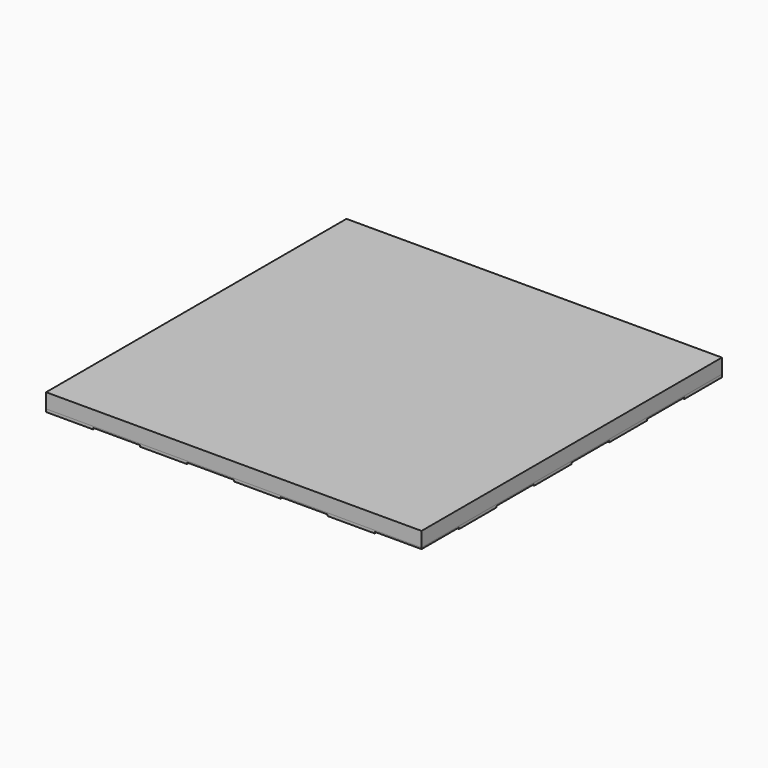
from build123d import *

# Parameters (mm, degrees)
F0_W     = 25.4
F0_H     = 25.4
F1_DEPTH = 1.524
F2_W     = 203.2
F2_H     = 203.2
F3_DEPTH = 7.9375
F4_W     = 25.4
F4_H     = 25.4
F5_DEPTH = 0.762


with BuildPart() as f1:
    # F0 (on Top) → F1 (new body)
    with BuildSketch(Plane.XY):
        with Locations((88.9, 88.9)):
            Rectangle(F0_W, F0_H)
    extrude(amount=-F1_DEPTH)


with BuildPart() as f1b:
    # F0 (on Top) → F1, piece 2 (new body)
    with BuildSketch(Plane.XY):
        with Locations((63.5, 63.5)):
            Rectangle(F0_W, F0_H)
    extrude(amount=-F1_DEPTH)


with BuildPart() as f1c:
    # F0 (on Top) → F1, piece 3 (new body)
    with BuildSketch(Plane.XY):
        with Locations((38.1, 88.9)):
            Rectangle(F0_W, F0_H)
    extrude(amount=-F1_DEPTH)


with BuildPart() as f1d:
    # F0 (on Top) → F1, piece 4 (new body)
    with BuildSketch(Plane.XY):
        with Locations((-12.7, 88.9)):
            Rectangle(F0_W, F0_H)
    extrude(amount=-F1_DEPTH)


with BuildPart() as f1e:
    # F0 (on Top) → F1, piece 5 (new body)
    with BuildSketch(Plane.XY):
        with Locations((12.7, 63.5)):
            Rectangle(F0_W, F0_H)
    extrude(amount=-F1_DEPTH)


with BuildPart() as f1f:
    # F0 (on Top) → F1, piece 6 (new body)
    with BuildSketch(Plane.XY):
        with Locations((-63.5, 88.9)):
            Rectangle(F0_W, F0_H)
    extrude(amount=-F1_DEPTH)


with BuildPart() as f1g:
    # F0 (on Top) → F1, piece 7 (new body)
    with BuildSketch(Plane.XY):
        with Locations((-88.9, 63.5)):
            Rectangle(F0_W, F0_H)
    extrude(amount=-F1_DEPTH)


with BuildPart() as f1h:
    # F0 (on Top) → F1, piece 8 (new body)
    with BuildSketch(Plane.XY):
        with Locations((-38.1, 63.5)):
            Rectangle(F0_W, F0_H)
    extrude(amount=-F1_DEPTH)


with BuildPart() as f1i:
    # F0 (on Top) → F1, piece 9 (new body)
    with BuildSketch(Plane.XY):
        with Locations((-63.5, 38.1)):
            Rectangle(F0_W, F0_H)
    extrude(amount=-F1_DEPTH)


with BuildPart() as f1j:
    # F0 (on Top) → F1, piece 10 (new body)
    with BuildSketch(Plane.XY):
        with Locations((-88.9, 12.7)):
            Rectangle(F0_W, F0_H)
    extrude(amount=-F1_DEPTH)


with BuildPart() as f1k:
    # F0 (on Top) → F1, piece 11 (new body)
    with BuildSketch(Plane.XY):
        with Locations((-63.5, -12.7)):
            Rectangle(F0_W, F0_H)
    extrude(amount=-F1_DEPTH)


with BuildPart() as f1l:
    # F0 (on Top) → F1, piece 12 (new body)
    with BuildSketch(Plane.XY):
        with Locations((-88.9, -38.1)):
            Rectangle(F0_W, F0_H)
    extrude(amount=-F1_DEPTH)


with BuildPart() as f1m:
    # F0 (on Top) → F1, piece 13 (new body)
    with BuildSketch(Plane.XY):
        with Locations((-63.5, -63.5)):
            Rectangle(F0_W, F0_H)
    extrude(amount=-F1_DEPTH)


with BuildPart() as f1n:
    # F0 (on Top) → F1, piece 14 (new body)
    with BuildSketch(Plane.XY):
        with Locations((-88.9, -88.9)):
            Rectangle(F0_W, F0_H)
    extrude(amount=-F1_DEPTH)


with BuildPart() as f1o:
    # F0 (on Top) → F1, piece 15 (new body)
    with BuildSketch(Plane.XY):
        with Locations((-38.1, -88.9)):
            Rectangle(F0_W, F0_H)
    extrude(amount=-F1_DEPTH)


with BuildPart() as f1p:
    # F0 (on Top) → F1, piece 16 (new body)
    with BuildSketch(Plane.XY):
        with Locations((-38.1, -38.1)):
            Rectangle(F0_W, F0_H)
    extrude(amount=-F1_DEPTH)


with BuildPart() as f1q:
    # F0 (on Top) → F1, piece 17 (new body)
    with BuildSketch(Plane.XY):
        with Locations((-38.1, 12.7)):
            Rectangle(F0_W, F0_H)
    extrude(amount=-F1_DEPTH)


with BuildPart() as f1r:
    # F0 (on Top) → F1, piece 18 (new body)
    with BuildSketch(Plane.XY):
        with Locations((-12.7, 38.1)):
            Rectangle(F0_W, F0_H)
    extrude(amount=-F1_DEPTH)


with BuildPart() as f1s:
    # F0 (on Top) → F1, piece 19 (new body)
    with BuildSketch(Plane.XY):
        with Locations((-12.7, -12.7)):
            Rectangle(F0_W, F0_H)
    extrude(amount=-F1_DEPTH)


with BuildPart() as f1t:
    # F0 (on Top) → F1, piece 20 (new body)
    with BuildSketch(Plane.XY):
        with Locations((-12.7, -63.5)):
            Rectangle(F0_W, F0_H)
    extrude(amount=-F1_DEPTH)


with BuildPart() as f1u:
    # F0 (on Top) → F1, piece 21 (new body)
    with BuildSketch(Plane.XY):
        with Locations((12.7, -88.9)):
            Rectangle(F0_W, F0_H)
    extrude(amount=-F1_DEPTH)


with BuildPart() as f1v:
    # F0 (on Top) → F1, piece 22 (new body)
    with BuildSketch(Plane.XY):
        with Locations((12.7, 12.7)):
            Rectangle(F0_W, F0_H)
    extrude(amount=-F1_DEPTH)


with BuildPart() as f1w:
    # F0 (on Top) → F1, piece 23 (new body)
    with BuildSketch(Plane.XY):
        with Locations((38.1, 38.1)):
            Rectangle(F0_W, F0_H)
    extrude(amount=-F1_DEPTH)


with BuildPart() as f1x:
    # F0 (on Top) → F1, piece 24 (new body)
    with BuildSketch(Plane.XY):
        with Locations((38.1, -12.7)):
            Rectangle(F0_W, F0_H)
    extrude(amount=-F1_DEPTH)


with BuildPart() as f1y:
    # F0 (on Top) → F1, piece 25 (new body)
    with BuildSketch(Plane.XY):
        with Locations((12.7, -38.1)):
            Rectangle(F0_W, F0_H)
    extrude(amount=-F1_DEPTH)


with BuildPart() as f1z:
    # F0 (on Top) → F1, piece 26 (new body)
    with BuildSketch(Plane.XY):
        with Locations((38.1, -63.5)):
            Rectangle(F0_W, F0_H)
    extrude(amount=-F1_DEPTH)


with BuildPart() as f1ba:
    # F0 (on Top) → F1, piece 27 (new body)
    with BuildSketch(Plane.XY):
        with Locations((63.5, -88.9)):
            Rectangle(F0_W, F0_H)
    extrude(amount=-F1_DEPTH)


with BuildPart() as f1bb:
    # F0 (on Top) → F1, piece 28 (new body)
    with BuildSketch(Plane.XY):
        with Locations((88.9, -63.5)):
            Rectangle(F0_W, F0_H)
    extrude(amount=-F1_DEPTH)


with BuildPart() as f1bc:
    # F0 (on Top) → F1, piece 29 (new body)
    with BuildSketch(Plane.XY):
        with Locations((63.5, -38.1)):
            Rectangle(F0_W, F0_H)
    extrude(amount=-F1_DEPTH)


with BuildPart() as f1bd:
    # F0 (on Top) → F1, piece 30 (new body)
    with BuildSketch(Plane.XY):
        with Locations((88.9, -12.7)):
            Rectangle(F0_W, F0_H)
    extrude(amount=-F1_DEPTH)


with BuildPart() as f1be:
    # F0 (on Top) → F1, piece 31 (new body)
    with BuildSketch(Plane.XY):
        with Locations((63.5, 12.7)):
            Rectangle(F0_W, F0_H)
    extrude(amount=-F1_DEPTH)


with BuildPart() as f1bf:
    # F0 (on Top) → F1, piece 32 (new body)
    with BuildSketch(Plane.XY):
        with Locations((88.9, 38.1)):
            Rectangle(F0_W, F0_H)
    extrude(amount=-F1_DEPTH)


with BuildPart() as f3:
    # F2 (on Top) → F3 (new body)
    with BuildSketch(Plane.XY):
        Rectangle(F2_W, F2_H)
    extrude(amount=F3_DEPTH)


with BuildPart() as f5:
    # F4 (on face) → F5 (new body)
    with BuildSketch(Plane(origin=(0, 0, 0), x_dir=(1, 0, 0), z_dir=(0, 0, -1))):
        with Locations((-63.5, 88.9)):
            Rectangle(F4_W, F4_H)
    extrude(amount=F5_DEPTH)


with BuildPart() as f5b:
    # F4 (on face) → F5, piece 2 (new body)
    with BuildSketch(Plane(origin=(0, 0, 0), x_dir=(1, 0, 0), z_dir=(0, 0, -1))):
        with Locations((-12.7, 88.9)):
            Rectangle(F4_W, F4_H)
    extrude(amount=F5_DEPTH)


with BuildPart() as f5c:
    # F4 (on face) → F5, piece 3 (new body)
    with BuildSketch(Plane(origin=(0, 0, 0), x_dir=(1, 0, 0), z_dir=(0, 0, -1))):
        with Locations((38.1, 88.9)):
            Rectangle(F4_W, F4_H)
    extrude(amount=F5_DEPTH)


with BuildPart() as f5d:
    # F4 (on face) → F5, piece 4 (new body)
    with BuildSketch(Plane(origin=(0, 0, 0), x_dir=(1, 0, 0), z_dir=(0, 0, -1))):
        with Locations((88.9, 88.9)):
            Rectangle(F4_W, F4_H)
    extrude(amount=F5_DEPTH)


with BuildPart() as f5e:
    # F4 (on face) → F5, piece 5 (new body)
    with BuildSketch(Plane(origin=(0, 0, 0), x_dir=(1, 0, 0), z_dir=(0, 0, -1))):
        with Locations((-88.9, 63.5)):
            Rectangle(F4_W, F4_H)
    extrude(amount=F5_DEPTH)


with BuildPart() as f5f:
    # F4 (on face) → F5, piece 6 (new body)
    with BuildSketch(Plane(origin=(0, 0, 0), x_dir=(1, 0, 0), z_dir=(0, 0, -1))):
        with Locations((-38.1, 63.5)):
            Rectangle(F4_W, F4_H)
    extrude(amount=F5_DEPTH)


with BuildPart() as f5g:
    # F4 (on face) → F5, piece 7 (new body)
    with BuildSketch(Plane(origin=(0, 0, 0), x_dir=(1, 0, 0), z_dir=(0, 0, -1))):
        with Locations((12.7, 63.5)):
            Rectangle(F4_W, F4_H)
    extrude(amount=F5_DEPTH)


with BuildPart() as f5h:
    # F4 (on face) → F5, piece 8 (new body)
    with BuildSketch(Plane(origin=(0, 0, 0), x_dir=(1, 0, 0), z_dir=(0, 0, -1))):
        with Locations((88.9, 38.1)):
            Rectangle(F4_W, F4_H)
    extrude(amount=F5_DEPTH)


with BuildPart() as f5i:
    # F4 (on face) → F5, piece 9 (new body)
    with BuildSketch(Plane(origin=(0, 0, 0), x_dir=(1, 0, 0), z_dir=(0, 0, -1))):
        with Locations((63.5, 12.7)):
            Rectangle(F4_W, F4_H)
    extrude(amount=F5_DEPTH)


with BuildPart() as f5j:
    # F4 (on face) → F5, piece 10 (new body)
    with BuildSketch(Plane(origin=(0, 0, 0), x_dir=(1, 0, 0), z_dir=(0, 0, -1))):
        with Locations((38.1, 38.1)):
            Rectangle(F4_W, F4_H)
    extrude(amount=F5_DEPTH)


with BuildPart() as f5k:
    # F4 (on face) → F5, piece 11 (new body)
    with BuildSketch(Plane(origin=(0, 0, 0), x_dir=(1, 0, 0), z_dir=(0, 0, -1))):
        with Locations((63.5, 63.5)):
            Rectangle(F4_W, F4_H)
    extrude(amount=F5_DEPTH)


with BuildPart() as f5l:
    # F4 (on face) → F5, piece 12 (new body)
    with BuildSketch(Plane(origin=(0, 0, 0), x_dir=(1, 0, 0), z_dir=(0, 0, -1))):
        with Locations((-12.7, 38.1)):
            Rectangle(F4_W, F4_H)
    extrude(amount=F5_DEPTH)


with BuildPart() as f5m:
    # F4 (on face) → F5, piece 13 (new body)
    with BuildSketch(Plane(origin=(0, 0, 0), x_dir=(1, 0, 0), z_dir=(0, 0, -1))):
        with Locations((-63.5, 38.1)):
            Rectangle(F4_W, F4_H)
    extrude(amount=F5_DEPTH)


with BuildPart() as f5n:
    # F4 (on face) → F5, piece 14 (new body)
    with BuildSketch(Plane(origin=(0, 0, 0), x_dir=(1, 0, 0), z_dir=(0, 0, -1))):
        with Locations((-88.9, 12.7)):
            Rectangle(F4_W, F4_H)
    extrude(amount=F5_DEPTH)


with BuildPart() as f5o:
    # F4 (on face) → F5, piece 15 (new body)
    with BuildSketch(Plane(origin=(0, 0, 0), x_dir=(1, 0, 0), z_dir=(0, 0, -1))):
        with Locations((-38.1, 12.7)):
            Rectangle(F4_W, F4_H)
    extrude(amount=F5_DEPTH)


with BuildPart() as f5p:
    # F4 (on face) → F5, piece 16 (new body)
    with BuildSketch(Plane(origin=(0, 0, 0), x_dir=(1, 0, 0), z_dir=(0, 0, -1))):
        with Locations((12.7, 12.7)):
            Rectangle(F4_W, F4_H)
    extrude(amount=F5_DEPTH)


with BuildPart() as f5q:
    # F4 (on face) → F5, piece 17 (new body)
    with BuildSketch(Plane(origin=(0, 0, 0), x_dir=(1, 0, 0), z_dir=(0, 0, -1))):
        with Locations((88.9, -12.7)):
            Rectangle(F4_W, F4_H)
    extrude(amount=F5_DEPTH)


with BuildPart() as f5r:
    # F4 (on face) → F5, piece 18 (new body)
    with BuildSketch(Plane(origin=(0, 0, 0), x_dir=(1, 0, 0), z_dir=(0, 0, -1))):
        with Locations((38.1, -12.7)):
            Rectangle(F4_W, F4_H)
    extrude(amount=F5_DEPTH)


with BuildPart() as f5s:
    # F4 (on face) → F5, piece 19 (new body)
    with BuildSketch(Plane(origin=(0, 0, 0), x_dir=(1, 0, 0), z_dir=(0, 0, -1))):
        with Locations((-12.7, -12.7)):
            Rectangle(F4_W, F4_H)
    extrude(amount=F5_DEPTH)


with BuildPart() as f5t:
    # F4 (on face) → F5, piece 20 (new body)
    with BuildSketch(Plane(origin=(0, 0, 0), x_dir=(1, 0, 0), z_dir=(0, 0, -1))):
        with Locations((-63.5, -12.7)):
            Rectangle(F4_W, F4_H)
    extrude(amount=F5_DEPTH)


with BuildPart() as f5u:
    # F4 (on face) → F5, piece 21 (new body)
    with BuildSketch(Plane(origin=(0, 0, 0), x_dir=(1, 0, 0), z_dir=(0, 0, -1))):
        with Locations((-88.9, -38.1)):
            Rectangle(F4_W, F4_H)
    extrude(amount=F5_DEPTH)


with BuildPart() as f5v:
    # F4 (on face) → F5, piece 22 (new body)
    with BuildSketch(Plane(origin=(0, 0, 0), x_dir=(1, 0, 0), z_dir=(0, 0, -1))):
        with Locations((-38.1, -38.1)):
            Rectangle(F4_W, F4_H)
    extrude(amount=F5_DEPTH)


with BuildPart() as f5w:
    # F4 (on face) → F5, piece 23 (new body)
    with BuildSketch(Plane(origin=(0, 0, 0), x_dir=(1, 0, 0), z_dir=(0, 0, -1))):
        with Locations((12.7, -38.1)):
            Rectangle(F4_W, F4_H)
    extrude(amount=F5_DEPTH)


with BuildPart() as f5x:
    # F4 (on face) → F5, piece 24 (new body)
    with BuildSketch(Plane(origin=(0, 0, 0), x_dir=(1, 0, 0), z_dir=(0, 0, -1))):
        with Locations((63.5, -38.1)):
            Rectangle(F4_W, F4_H)
    extrude(amount=F5_DEPTH)


with BuildPart() as f5y:
    # F4 (on face) → F5, piece 25 (new body)
    with BuildSketch(Plane(origin=(0, 0, 0), x_dir=(1, 0, 0), z_dir=(0, 0, -1))):
        with Locations((88.9, -63.5)):
            Rectangle(F4_W, F4_H)
    extrude(amount=F5_DEPTH)


with BuildPart() as f5z:
    # F4 (on face) → F5, piece 26 (new body)
    with BuildSketch(Plane(origin=(0, 0, 0), x_dir=(1, 0, 0), z_dir=(0, 0, -1))):
        with Locations((63.5, -88.9)):
            Rectangle(F4_W, F4_H)
    extrude(amount=F5_DEPTH)


with BuildPart() as f5ba:
    # F4 (on face) → F5, piece 27 (new body)
    with BuildSketch(Plane(origin=(0, 0, 0), x_dir=(1, 0, 0), z_dir=(0, 0, -1))):
        with Locations((38.1, -63.5)):
            Rectangle(F4_W, F4_H)
    extrude(amount=F5_DEPTH)


with BuildPart() as f5bb:
    # F4 (on face) → F5, piece 28 (new body)
    with BuildSketch(Plane(origin=(0, 0, 0), x_dir=(1, 0, 0), z_dir=(0, 0, -1))):
        with Locations((12.7, -88.9)):
            Rectangle(F4_W, F4_H)
    extrude(amount=F5_DEPTH)


with BuildPart() as f5bc:
    # F4 (on face) → F5, piece 29 (new body)
    with BuildSketch(Plane(origin=(0, 0, 0), x_dir=(1, 0, 0), z_dir=(0, 0, -1))):
        with Locations((-12.7, -63.5)):
            Rectangle(F4_W, F4_H)
    extrude(amount=F5_DEPTH)


with BuildPart() as f5bd:
    # F4 (on face) → F5, piece 30 (new body)
    with BuildSketch(Plane(origin=(0, 0, 0), x_dir=(1, 0, 0), z_dir=(0, 0, -1))):
        with Locations((-38.1, -88.9)):
            Rectangle(F4_W, F4_H)
    extrude(amount=F5_DEPTH)


with BuildPart() as f5be:
    # F4 (on face) → F5, piece 31 (new body)
    with BuildSketch(Plane(origin=(0, 0, 0), x_dir=(1, 0, 0), z_dir=(0, 0, -1))):
        with Locations((-63.5, -63.5)):
            Rectangle(F4_W, F4_H)
    extrude(amount=F5_DEPTH)


with BuildPart() as f5bf:
    # F4 (on face) → F5, piece 32 (new body)
    with BuildSketch(Plane(origin=(0, 0, 0), x_dir=(1, 0, 0), z_dir=(0, 0, -1))):
        with Locations((-88.9, -88.9)):
            Rectangle(F4_W, F4_H)
    extrude(amount=F5_DEPTH)


solid = Compound([f1.part, f1b.part, f1c.part, f1d.part, f1e.part, f1f.part, f1g.part, f1h.part, f1i.part, f1j.part, f1k.part, f1l.part, f1m.part, f1n.part, f1o.part, f1p.part, f1q.part, f1r.part, f1s.part, f1t.part, f1u.part, f1v.part, f1w.part, f1x.part, f1y.part, f1z.part, f1ba.part, f1bb.part, f1bc.part, f1bd.part, f1be.part, f1bf.part, f3.part, f5.part, f5b.part, f5c.part, f5d.part, f5e.part, f5f.part, f5g.part, f5h.part, f5i.part, f5j.part, f5k.part, f5l.part, f5m.part, f5n.part, f5o.part, f5p.part, f5q.part, f5r.part, f5s.part, f5t.part, f5u.part, f5v.part, f5w.part, f5x.part, f5y.part, f5z.part, f5ba.part, f5bb.part, f5bc.part, f5bd.part, f5be.part, f5bf.part])
